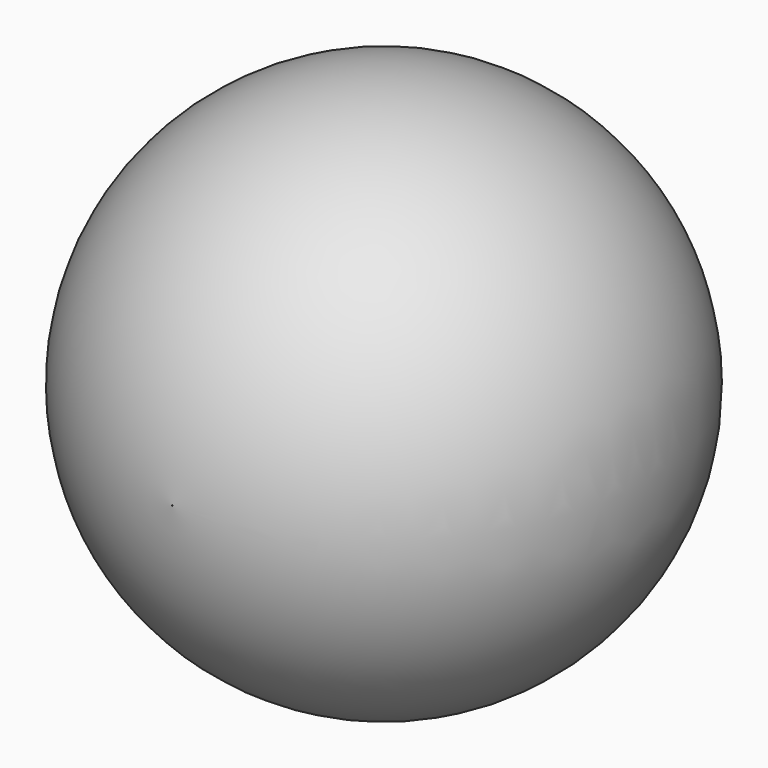
from build123d import *


with BuildPart() as f1:
    # F0 (on Top) → F1 (revolve)
    with BuildSketch(Plane.XY):
        with BuildLine():
            Line((-43.9567568072, 76.9230106211), (-44.0092794597, 45.5905459821))
            Line((-44.0092794597, 45.5905459821), (-44.0092794597, 14.2580373213))
            ThreePointArc((-44.0092794597, 14.2580373213), (-12.6767818043, 45.5642846466), (-43.9567568072, 76.9230106211))
        make_face()
    revolve(axis=Axis((-43.9830181335, 61.2567783016, 0), (-0.001676299, -0.999998595, 0)))


solid = f1.part
